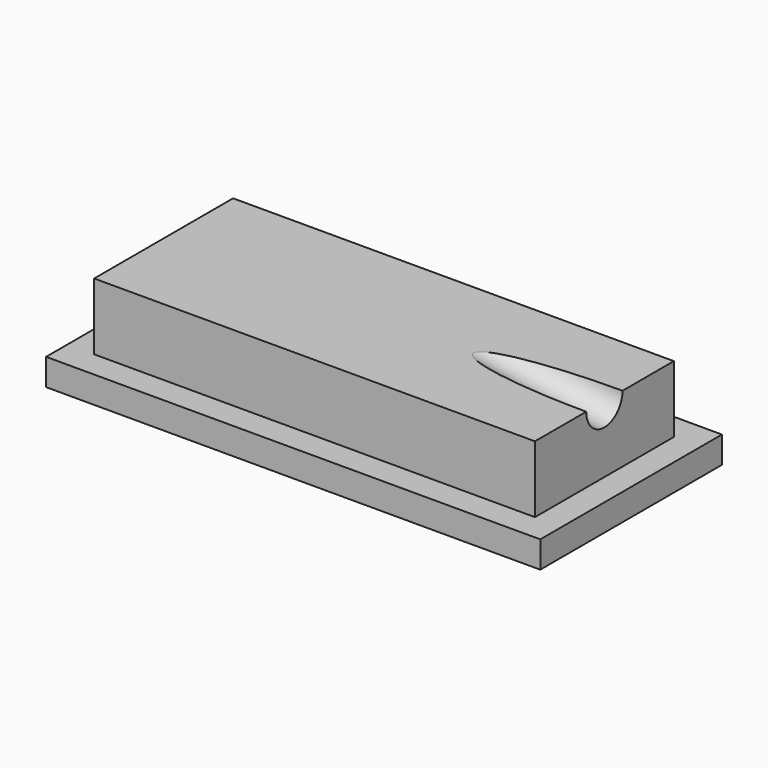
from build123d import *

# Parameters (mm, degrees)
SKETCH_W     = 37
SKETCH_H     = 17
PAD_DEPTH    = 2
SKETCH001_W  = 33
SKETCH001_H  = 13
PAD001_DEPTH = 5
SKETCH002_R  = 1.7
POCKET_DEPTH = 115


with BuildPart() as part:
    # Sketch → Pad (new body)
    with BuildSketch(Plane.XY):
        Rectangle(SKETCH_W, SKETCH_H)
    extrude(amount=PAD_DEPTH)

    # Sketch001 (on Face6 of Pad) → Pad001 (join)
    with BuildSketch(Plane.XY.offset(2)):
        Rectangle(SKETCH001_W, SKETCH001_H)
    extrude(amount=PAD001_DEPTH)

    # Sketch002 (on Face8 of Pad001) → Pocket (cut)
    with BuildSketch(Plane(origin=(16.5, 0, 0), x_dir=(0, 1, 0), z_dir=(0.984808, 0, -0.173648))):
        with Locations((0, 6.893654)):
            Circle(SKETCH002_R)
    extrude(amount=-POCKET_DEPTH, mode=Mode.SUBTRACT)


solid = part.part
